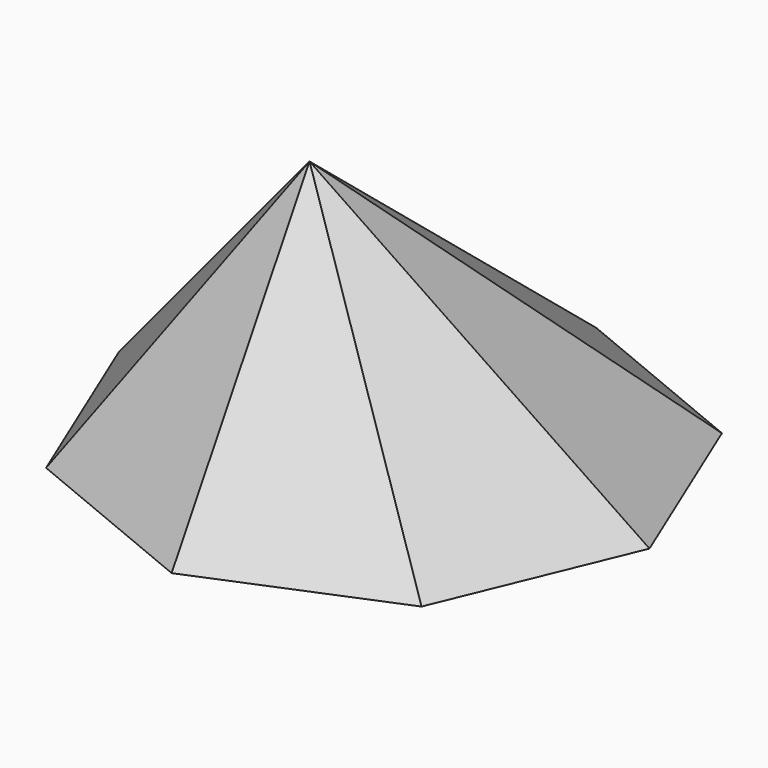
from build123d import *


with BuildPart() as f3:
    # F0 (on Top) → F3 section 0
    with BuildSketch(Plane.XY, mode=Mode.PRIVATE) as f3_s0:
        Polygon((-64.214443, -64.214443), (0, -90.812936), (64.214443, -64.214443), (90.812936, 0), (64.214443, 64.214443), (0, 90.812936), (-64.214443, 64.214443), (-90.812936, 0), align=None)
    loft([Vertex(0, -31.841848, 100), f3_s0.sketch])


solid = f3.part
